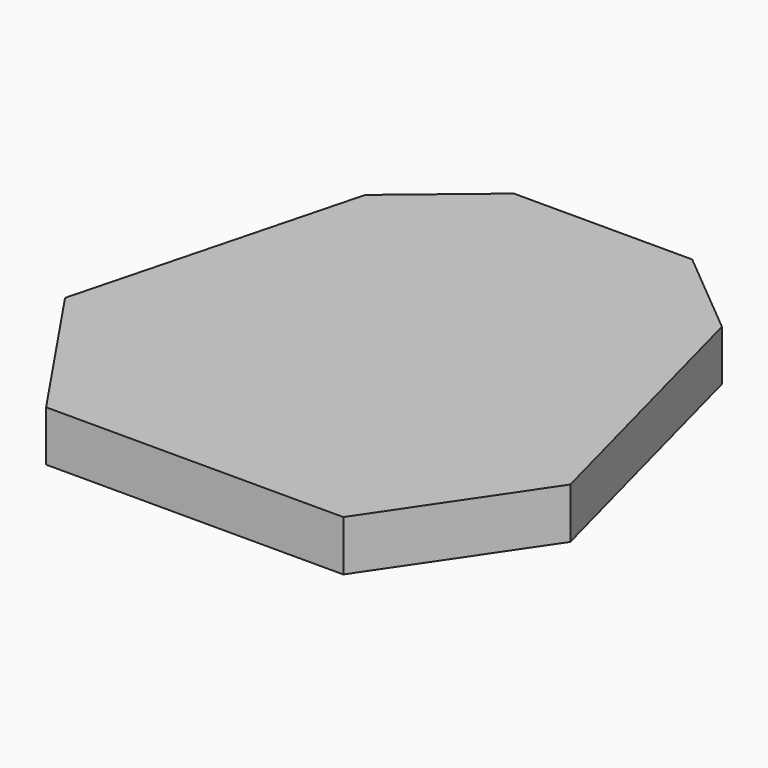
from build123d import *

# Parameters (mm, degrees)
F1_DEPTH = 17
F2_ANGLE = 180


with BuildPart() as f1:
    # F0 (on Top) → F1 (new body)
    with BuildSketch(Plane.XY):
        Polygon((-256.887055, -71.171104), (-231.887055, -166.171104), (-201.887055, -191.171104), (-141.887055, -191.171104), (-111.887055, -166.171104), (-86.887055, -71.171104), (-121.887055, -19.446782), (-221.887055, -19.446782), align=None)
    extrude(amount=F1_DEPTH)


with BuildPart() as f1_1:
    # F2: moved
    add(f1.part.rotate(Axis((-141.887055, -191.171104, 8.5), (0, 0, 1)), F2_ANGLE))


solid = f1_1.part
